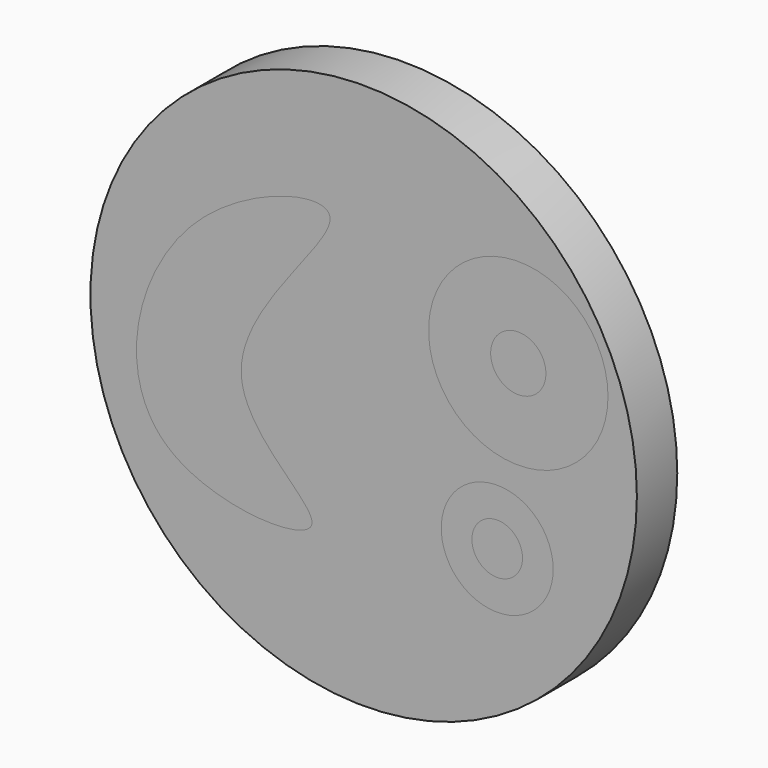
from build123d import *

# Parameters (mm, degrees)
F0_R     = 17.3199569185
F0_R_2   = 3.5486855121
F0_R_3   = 5.686867303
F1_DEPTH = 3.2
F0_R_4   = 1.6039423645
F2_DEPTH = 3.2
F0_R_5   = 1.7506899316
F3_DEPTH = 3.2


with BuildPart() as f1:
    # F0 (on Front) → F1 (new body)
    with BuildSketch(Plane.XZ):
        with Locations((-29.5709185302, -40.3878651559)):
            Circle(F0_R)
        with Locations((-21.1056768894, -46.1798720062)):
            Circle(F0_R_2, mode=Mode.SUBTRACT)
        with BuildLine():
            add(Edge.make_bspline(
                [(-32.8679084778, -48.6748889089), (-32.4964057005, -47.5071913989), (-42.6710625419, -42.1027881923), (-26.1784821552, -28.2864358363), (-42.883612091, -32.5721176947), (-46.6074856878, -49.4680572919), (-33.2659219615, -49.9259141562), (-32.8679084778, -48.6748889089)],
                knots=[0, 0, 0, 0, 0.1785366706, 0.3954593042, 0.5814392582, 0.8087228236, 1, 1, 1, 1], degree=3))
        make_face(mode=Mode.SUBTRACT)
        with Locations((-19.7690594941, -35.3978276253)):
            Circle(F0_R_3, mode=Mode.SUBTRACT)
    extrude(amount=F1_DEPTH)


with BuildPart() as f2:
    # F0 (on Front) → F2 (new body)
    with BuildSketch(Plane.XZ):
        with Locations((-21.1056768894, -46.1798720062)):
            Circle(F0_R_2)
        with Locations((-21.1056768894, -46.1798720062)):
            Circle(F0_R_4, mode=Mode.SUBTRACT)
    extrude(amount=F2_DEPTH)


with BuildPart() as f2b:
    # F0 (on Front) → F2, piece 2 (new body)
    with BuildSketch(Plane.XZ):
        with Locations((-19.7690594941, -35.3978276253)):
            Circle(F0_R_3)
        with Locations((-19.7690594941, -35.3978276253)):
            Circle(F0_R_5, mode=Mode.SUBTRACT)
    extrude(amount=F2_DEPTH)


with BuildPart() as f3:
    # F0 (on Front) → F3 (new body)
    with BuildSketch(Plane.XZ):
        with Locations((-21.1056768894, -46.1798720062)):
            Circle(F0_R_4)
    extrude(amount=F3_DEPTH)


with BuildPart() as f3b:
    # F0 (on Front) → F3, piece 2 (new body)
    with BuildSketch(Plane.XZ):
        with Locations((-19.7690594941, -35.3978276253)):
            Circle(F0_R_5)
    extrude(amount=F3_DEPTH)


with BuildPart() as f3c:
    # F0 (on Front) → F3, piece 3 (new body)
    with BuildSketch(Plane.XZ):
        with BuildLine():
            add(Edge.make_bspline(
                [(-32.8679084778, -48.6748889089), (-32.4964057005, -47.5071913989), (-42.6710625419, -42.1027881923), (-26.1784821552, -28.2864358363), (-42.883612091, -32.5721176947), (-46.6074856878, -49.4680572919), (-33.2659219615, -49.9259141562), (-32.8679084778, -48.6748889089)],
                knots=[0, 0, 0, 0, 0.1785366706, 0.3954593042, 0.5814392582, 0.8087228236, 1, 1, 1, 1], degree=3))
        make_face()
    extrude(amount=F3_DEPTH)


solid = Compound([f1.part, f2.part, f2b.part, f3.part, f3b.part, f3c.part])
